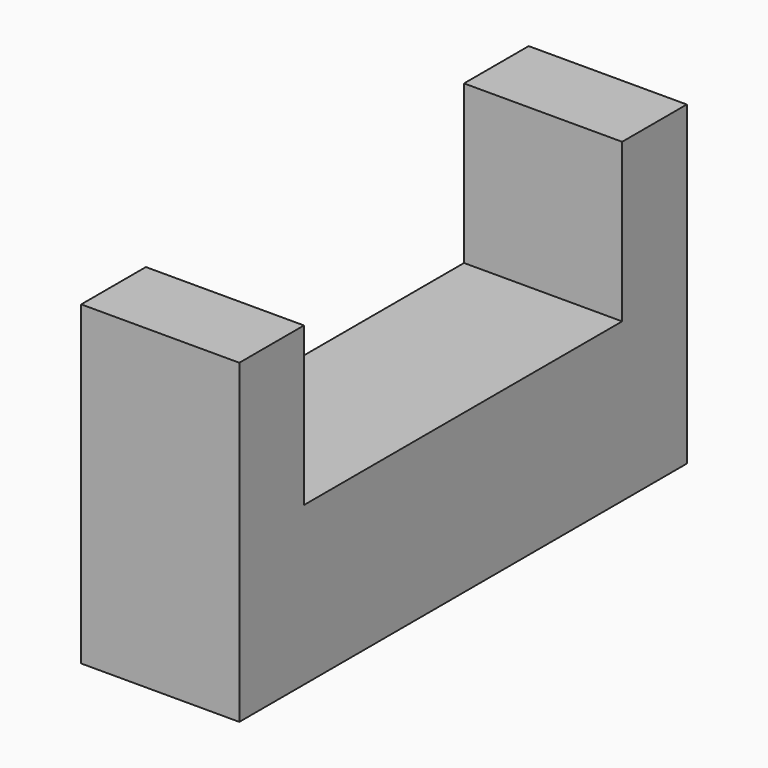
from build123d import *

# Parameters (mm, degrees)
F0_W     = 29.21
F0_H     = 57.15
F0_W_2   = 143.764
F1_DEPTH = 57.15


with BuildPart() as f1:
    # F0 (on Right) → F1 (new body)
    with BuildSketch(Plane.YZ):
        with Locations((158.369, 39.481787)):
            Rectangle(F0_W, F0_H)
        with Locations((158.369, -17.668213)):
            Rectangle(F0_W, F0_H)
        with Locations((71.882, -17.668213)):
            Rectangle(F0_W_2, F0_H)
        with Locations((-14.605, -17.668213)):
            Rectangle(F0_W, F0_H)
        with Locations((-14.605, 39.481787)):
            Rectangle(F0_W, F0_H)
    extrude(amount=F1_DEPTH)


solid = f1.part
